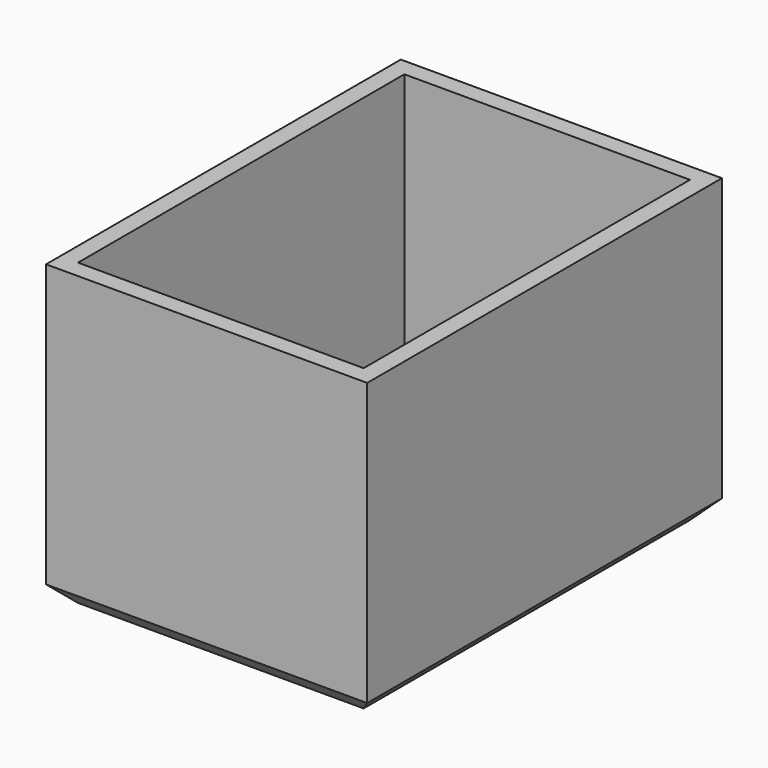
from build123d import *

# Parameters (mm, degrees)
F0_W     = 36.2096428871
F0_H     = 33.7809510529
F1_DEPTH = 50
F2_W     = 32.2096428871
F2_H     = 46
F3_DEPTH = 32
F4_SIZE  = 2


with BuildPart() as f1:
    # F0 (on Front) → F1 (new body)
    with BuildSketch(Plane.XZ):
        with Locations((18.1048214436, 16.8904755265)):
            Rectangle(F0_W, F0_H)
    extrude(amount=F1_DEPTH)

    # F2 (on face) → F3 (cut)
    with BuildSketch(Plane.XY.offset(33.7809510529)):
        with Locations((18.1048214436, -25)):
            Rectangle(F2_W, F2_H)
    extrude(amount=-F3_DEPTH, mode=Mode.SUBTRACT)

    # F4
    f4_edges = [f1.edges().sort_by_distance(p)[0] for p in [
        (18.104821, 0, 0),
        (0, -25, 0),
        (36.209643, -25, 0),
        (18.104821, -50, 0),
    ]]
    chamfer(f4_edges, length=F4_SIZE)


solid = f1.part
